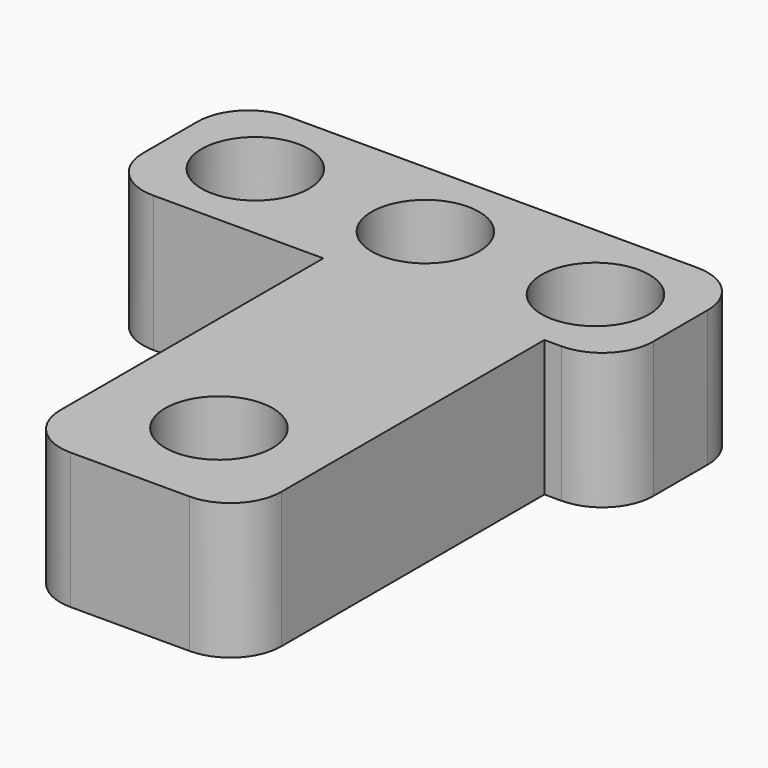
from build123d import *

# Parameters (mm, degrees)
F0_R     = 4.0132
F0_W     = 16.51
F0_H     = 28.362804
F1_DEPTH = 10.16
F2_R     = 3.81


with BuildPart() as f1:
    # F0 (on Top) → F1 (new body)
    with BuildSketch(Plane.XY):
        Polygon((13.97, -6.35), (19.05, -6.35), (19.05, 6.35), (-19.05, 6.35), (-19.05, -6.35), (-2.54, -6.35), align=None)
        with Locations((-12.7, 0)):
            Circle(F0_R, mode=Mode.SUBTRACT)
        Circle(F0_R, mode=Mode.SUBTRACT)
        with Locations((12.7, 0)):
            Circle(F0_R, mode=Mode.SUBTRACT)
        with Locations((5.715, -20.531402)):
            Rectangle(F0_W, F0_H)
        with Locations((6.096, -26.889604)):
            Circle(F0_R, mode=Mode.SUBTRACT)
    extrude(amount=F1_DEPTH)

    # F2
    f2_edges = [f1.edges().sort_by_distance(p)[0] for p in [
        (-2.54, -34.712804, 5.08),
        (13.97, -34.712804, 5.08),
        (19.05, -6.35, 5.08),
        (19.05, 6.35, 5.08),
        (-19.05, -6.35, 5.08),
        (-19.05, 6.35, 5.08),
    ]]
    fillet(f2_edges, radius=F2_R)


solid = f1.part
